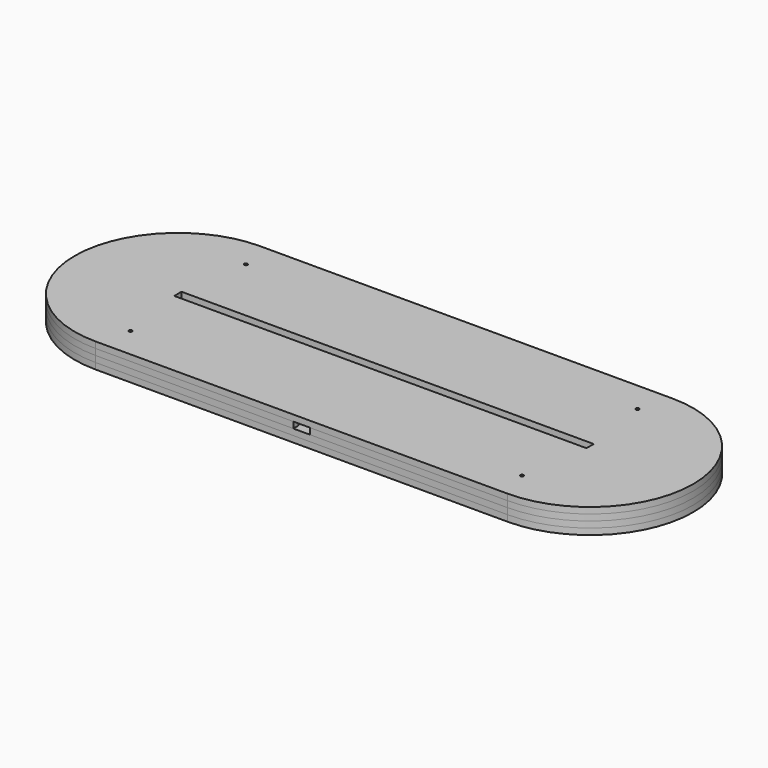
from build123d import *

# Parameters (mm, degrees)
BOX_BOTTOM_HALF_1_W     = 301.98633
BOX_BOTTOM_HALF_1_H     = 102
BOX_BOTTOM_HALF_1_DEPTH = 4
BOX_BOTTOM_HALF_0_W     = 301.98633
BOX_BOTTOM_HALF_0_H     = 102
BOX_BOTTOM_HALF_0_DEPTH = 7
PAD_DEPTH               = 3
PAD001_DEPTH            = 3
SKETCH002_W             = 209.08447
SKETCH002_H             = 4.18
PAD002_DEPTH            = 3
SKETCH003_W             = 26.3
SKETCH003_H             = 34.2
POCKET_DEPTH            = 3
SKETCH004_W             = 18
SKETCH004_H             = 25
POCKET001_DEPTH         = 3
SKETCH005_W             = 14
SKETCH005_H             = 5
POCKET002_DEPTH         = 6
SKETCH006_W             = 14
SKETCH006_H             = 3
POCKET003_DEPTH         = 3
SKETCH007_W             = 8
SKETCH007_H             = 3
POCKET004_DEPTH         = 3
SKETCH008_W             = 200
SKETCH008_H             = 4.4
PAD003_DEPTH            = 3
SKETCH009_R             = 0.8
POCKET005_DEPTH         = 644.911736
BOX_BOTTOM_HALF_2_W     = 301.98633
BOX_BOTTOM_HALF_2_H     = 102
BOX_BOTTOM_HALF_2_DEPTH = 4


with BuildPart() as box_bottom_half_1_body:
    # box_bottom_half_1 → box_bottom_half_1 (new body)
    with BuildSketch(Plane(origin=(-150.993165, -51, -1), x_dir=(1, 0, 0), z_dir=(0, 0, 1))):
        with Locations((150.993165, 51)):
            Rectangle(BOX_BOTTOM_HALF_1_W, BOX_BOTTOM_HALF_1_H)
    extrude(amount=BOX_BOTTOM_HALF_1_DEPTH)


with BuildPart() as box_bottom_half_0_body:
    # box_bottom_half_0 → box_bottom_half_0 (new body)
    with BuildSketch(Plane(origin=(-150.993165, -51, -1), x_dir=(1, 0, 0), z_dir=(0, 0, 1))):
        with Locations((150.993165, 51)):
            Rectangle(BOX_BOTTOM_HALF_0_W, BOX_BOTTOM_HALF_0_H)
    extrude(amount=BOX_BOTTOM_HALF_0_DEPTH)


with BuildPart() as body:
    # Sketch → Pad (new body)
    with BuildSketch(Plane.XY):
        with BuildLine():
            ThreePointArc((-100, 50), (-150, 0), (-100, -50))
            Line((-100, -50), (100, -50))
            ThreePointArc((100, -50), (150, 0), (100, 50))
            Line((-100, 50), (100, 50))
        make_face()
    extrude(amount=PAD_DEPTH)

    # Sketch001 (on Face6 of Pad) → Pad001 (join)
    with BuildSketch(Plane.XY.offset(3)):
        with BuildLine():
            ThreePointArc((-100, 50), (-150, 0), (-100, -50))
            Line((-100, -50), (100, -50))
            ThreePointArc((100, -50), (150, 0), (100, 50))
            Line((-100, 50), (100, 50))
        make_face()
        with BuildLine():
            ThreePointArc((-100, 5), (-105, 0), (-100, -5))
            Line((-100, -5), (100, -5))
            ThreePointArc((100, -5), (105, 0), (100, 5))
            Line((-100, 5), (100, 5))
        make_face(mode=Mode.SUBTRACT)
    extrude(amount=PAD001_DEPTH)

    # Sketch002 (on Face9 of Pad001) → Pad002 (join)
    with BuildSketch(Plane.XY.offset(6)):
        with BuildLine():
            ThreePointArc((-100, 50), (-150, 0), (-100, -50))
            Line((-100, -50), (100, -50))
            ThreePointArc((100, -50), (150, 0), (100, 50))
            Line((-100, 50), (100, 50))
        make_face()
        Rectangle(SKETCH002_W, SKETCH002_H, mode=Mode.SUBTRACT)
    extrude(amount=PAD002_DEPTH)

    # Sketch003 (on Face13 of Pad002) → Pocket (cut)
    with BuildSketch(Plane.XY.offset(9)):
        with Locations((0, -29.9)):
            Rectangle(SKETCH003_W, SKETCH003_H)
    extrude(amount=-POCKET_DEPTH, mode=Mode.SUBTRACT)

    # Sketch004 (on Face27 of Pocket) → Pocket001 (cut)
    with BuildSketch(Plane.XY.offset(6)):
        with Locations((0, -25.3)):
            Rectangle(SKETCH004_W, SKETCH004_H)
    extrude(amount=-POCKET001_DEPTH, mode=Mode.SUBTRACT)

    # Sketch005 (on Face13 of Pocket001) → Pocket002 (cut)
    with BuildSketch(Plane.XY.offset(9)):
        with Locations((0, -10.3)):
            Rectangle(SKETCH005_W, SKETCH005_H)
    extrude(amount=-POCKET002_DEPTH, mode=Mode.SUBTRACT)

    # Sketch006 (on Face23 of Pocket002) → Pocket003 (cut)
    with BuildSketch(Plane.XZ.offset(7.8)):
        with Locations((0, 4.5)):
            Rectangle(SKETCH006_W, SKETCH006_H)
    extrude(amount=-POCKET003_DEPTH, mode=Mode.SUBTRACT)

    # Sketch007 (on Face13 of Pocket003) → Pocket004 (cut)
    with BuildSketch(Plane.XY.offset(9)):
        with Locations((0, -48.5)):
            Rectangle(SKETCH007_W, SKETCH007_H)
    extrude(amount=-POCKET004_DEPTH, mode=Mode.SUBTRACT)

    # Sketch008 (on Face15 of Pocket004) → Pad003 (join)
    with BuildSketch(Plane.XY.offset(9)):
        with BuildLine():
            ThreePointArc((-100, 50), (-150, 0), (-100, -50))
            Line((-100, -50), (100, -50))
            ThreePointArc((100, -50), (150, 0), (100, 50))
            Line((-100, 50), (100, 50))
        make_face()
        Rectangle(SKETCH008_W, SKETCH008_H, mode=Mode.SUBTRACT)
    extrude(amount=PAD003_DEPTH)

    # Sketch009 (on Face4 of Pad003) → Pocket005 (cut, through all)
    with BuildSketch(Plane(origin=(0, 0, 0), x_dir=(1, 0, 0), z_dir=(0, 0, -1))):
        with Locations((-95, 35)):
            Circle(SKETCH009_R)
        with Locations((-95, -35)):
            Circle(SKETCH009_R)
    pocket005 = extrude(amount=-POCKET005_DEPTH, mode=Mode.SUBTRACT)

    # Mirrored: Pocket005 across Sketch009 V_Axis
    add(pocket005.mirror(Plane(origin=(0, 0, 0), x_dir=(0, 0, -1), z_dir=(1, 0, 0))), mode=Mode.SUBTRACT)


with BuildPart() as bottom_half_0_body:
    # bottom_half_0 base: copy of Body
    add(body.part)

    # bottom_half_0: intersect box_bottom_half_0 body
    add(box_bottom_half_0_body.part, mode=Mode.INTERSECT)


with BuildPart() as bottom_half_1_body:
    # bottom_half_1 base: copy of bottom_half_0 body
    add(bottom_half_0_body.part)

    # bottom_half_1: intersect box_bottom_half_1 body
    add(box_bottom_half_1_body.part, mode=Mode.INTERSECT)


with BuildPart() as top_half_1_body:
    # top_half_1 base: copy of bottom_half_0 body
    add(bottom_half_0_body.part)

    # top_half_1: cut box_bottom_half_1 body
    add(box_bottom_half_1_body.part, mode=Mode.SUBTRACT)


with BuildPart() as box_bottom_half_2_body:
    # box_bottom_half_2 → box_bottom_half_2 (new body)
    with BuildSketch(Plane(origin=(-150.993165, -51, 5), x_dir=(1, 0, 0), z_dir=(0, 0, 1))):
        with Locations((150.993165, 51)):
            Rectangle(BOX_BOTTOM_HALF_2_W, BOX_BOTTOM_HALF_2_H)
    extrude(amount=BOX_BOTTOM_HALF_2_DEPTH)


with BuildPart() as top_half_0_body:
    # top_half_0 base: copy of Body
    add(body.part)

    # top_half_0: cut box_bottom_half_0 body
    add(box_bottom_half_0_body.part, mode=Mode.SUBTRACT)


with BuildPart() as bottom_half_2_body:
    # bottom_half_2 base: copy of top_half_0 body
    add(top_half_0_body.part)

    # bottom_half_2: intersect box_bottom_half_2 body
    add(box_bottom_half_2_body.part, mode=Mode.INTERSECT)


with BuildPart() as top_half_2_body:
    # top_half_2 base: copy of top_half_0 body
    add(top_half_0_body.part)

    # top_half_2: cut box_bottom_half_2 body
    add(box_bottom_half_2_body.part, mode=Mode.SUBTRACT)


solid = Compound([bottom_half_1_body.part, top_half_1_body.part, bottom_half_2_body.part, top_half_2_body.part])
